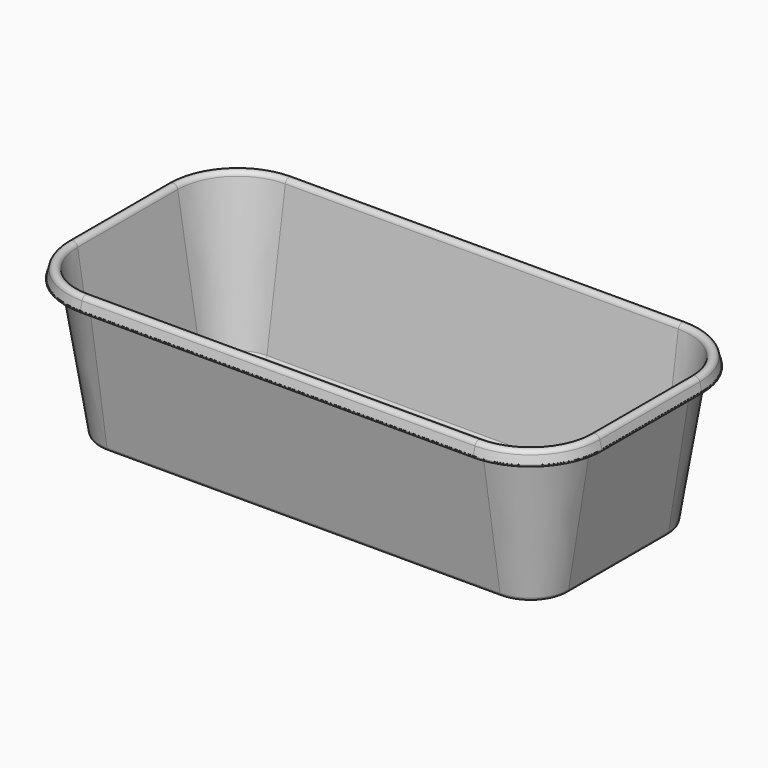
from build123d import *

# Parameters (mm, degrees)
PAD_DEPTH    = 125
POCKET_DEPTH = 5
THICKNESS_T  = -1.1


with BuildPart() as part:
    # Sketch → Pad (new body)
    with BuildSketch(Plane.XY):
        with BuildLine():
            Line((-165, -112.5), (165, -112.5))
            ThreePointArc((165, -112.5), (207.426407, -94.926407), (225, -52.5))
            Line((225, -52.5), (225, 52.5))
            ThreePointArc((225, 52.5), (207.426407, 94.926407), (165, 112.5))
            Line((165, 112.5), (-165, 112.5))
            ThreePointArc((-165, 112.5), (-207.426407, 94.926407), (-225, 52.5))
            Line((-225, 52.5), (-225, -52.5))
            ThreePointArc((-225, -52.5), (-207.426407, -94.926407), (-165, -112.5))
        make_face()
    extrude(amount=PAD_DEPTH)

    # SubtractivePipe: sweep along a path in Sketch
    with BuildLine(Plane.XY) as subtractivepipe_path:
        Line((-165, -112.5), (165, -112.5))
        ThreePointArc((165, -112.5), (207.426407, -94.926407), (225, -52.5))
        Line((225, -52.5), (225, 52.5))
        ThreePointArc((225, 52.5), (207.426407, 94.926407), (165, 112.5))
        Line((165, 112.5), (-165, 112.5))
        ThreePointArc((-165, 112.5), (-207.426407, 94.926407), (-225, 52.5))
        Line((-225, 52.5), (-225, -52.5))
        ThreePointArc((-225, -52.5), (-207.426407, -94.926407), (-165, -112.5))
    # Sketch001 → SubtractivePipe (sweep, cut)
    with BuildSketch(Plane(origin=(0, 112.5, 0), x_dir=(0, 1, 0), z_dir=(1, 0, 0))):
        with BuildLine():
            Line((0, 114.2389), (-0.971044, 114))
            Line((-0.971044, 114), (-2.869539, 121.716701))
            ThreePointArc((-2.869539, 121.716701), (-5.903298, 123.997574), (-8.743973, 121.480306))
            Line((-8.743973, 121.480306), (-28.038699, 2.519694))
            ThreePointArc((-31, 0), (-29.055896, 0.715168), (-28.038699, 2.519694))
            Line((-31, 0), (0, 0))
            Line((0, 0), (0, 114.2389))
        make_face()
    sweep(path=subtractivepipe_path.line, mode=Mode.SUBTRACT)

    # Sketch003 → Pocket (cut)
    with BuildSketch(Plane.XY):
        with BuildLine():
            Line((-155.5, -48), (155.5, -48))
            ThreePointArc((155.5, -48), (159.035534, -46.535534), (160.5, -43))
            Line((160.5, -43), (160.5, 43))
            ThreePointArc((160.5, 43), (159.035534, 46.535534), (155.5, 48))
            Line((155.5, 48), (-155.5, 48))
            ThreePointArc((-155.5, 48), (-159.035534, 46.535534), (-160.5, 43))
            Line((-160.5, 43), (-160.5, -43))
            ThreePointArc((-160.5, -43), (-159.035534, -46.535534), (-155.5, -48))
        make_face()
    extrude(amount=POCKET_DEPTH, mode=Mode.SUBTRACT)

    # Thickness
    thickness_openings = [part.faces().sort_by_distance(p)[0] for p in [
        (0, 0, 125),
        (-225, 0, 119.61945),
        (-207.426407, -94.926407, 119.61945),
        (0, -112.5, 119.61945),
        (207.426407, -94.926407, 119.61945),
        (-207.426407, 94.926407, 119.61945),
        (0, 112.5, 119.61945),
        (207.426407, 94.926407, 119.61945),
        (225, 0, 119.61945),
    ]]
    offset(amount=THICKNESS_T, openings=thickness_openings)


solid = part.part
